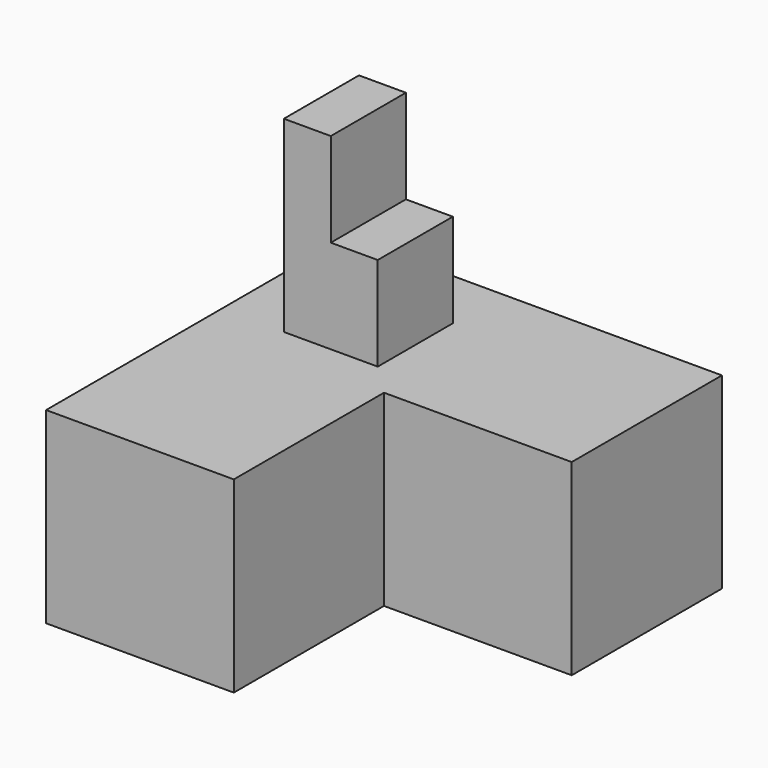
from build123d import *

# Parameters (mm, degrees)
F1_DEPTH = 25.4
F2_W     = 12.7
F2_H     = 12.7
F3_DEPTH = 25.4
F4_W     = 6.35
F4_H     = 12.7
F5_DEPTH = 12.7


with BuildPart() as f1:
    # F0 (on Top) → F1 (new body)
    with BuildSketch(Plane.XY):
        Polygon((25.4, -12.7), (25.4, 12.7), (0, 12.7), (-25.4, 12.7), (-25.4, -12.7), (-25.4, -38.1), (0, -38.1), (0, -12.7), align=None)
    extrude(amount=F1_DEPTH)

    # F2 (on face) → F3 (join)
    with BuildSketch(Plane.XY.offset(25.4)):
        with Locations((-10.5918, -2.1082)):
            Rectangle(F2_W, F2_H)
    extrude(amount=F3_DEPTH)

    # F4 (on face) → F5 (cut)
    with BuildSketch(Plane.XY.offset(50.8)):
        with Locations((-7.4168, -2.1082)):
            Rectangle(F4_W, F4_H)
    extrude(amount=-F5_DEPTH, mode=Mode.SUBTRACT)


solid = f1.part
